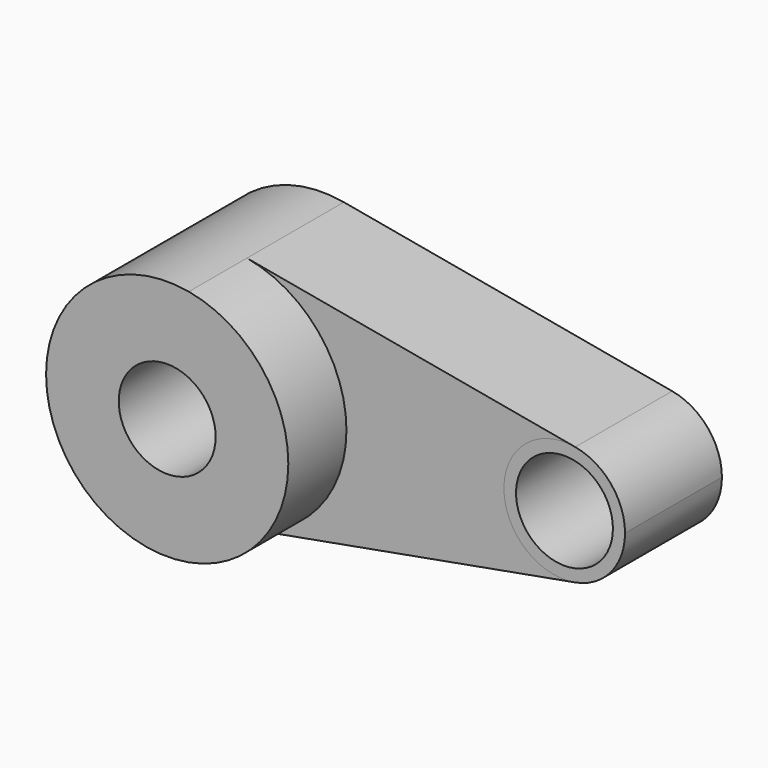
from build123d import *

# Parameters (mm, degrees)
F0_R     = 10
F2_DEPTH = 25
F3_DEPTH = 40


with BuildPart() as f2:
    # F0 (on Front) → F2 (new body)
    with BuildSketch(Plane.XZ):
        with BuildLine():
            ThreePointArc((82.5, 0), (79.5956184197, 8.0108743058), (72.2321428571, 12.2990868875))
            ThreePointArc((72.2321428571, 12.2990868875), (57.5, 0), (72.2321428571, -12.2990868875))
            ThreePointArc((72.2321428571, -12.2990868875), (79.5956184197, -8.0108743058), (82.5, 0))
        make_face()
        with Locations((70, 0)):
            Circle(F0_R, mode=Mode.SUBTRACT)
    extrude(amount=F2_DEPTH)


with BuildPart() as f2b:
    # F1 (on face) → F2, piece 2 (new body)
    with BuildSketch(Plane.XZ):
        with BuildLine():
            Line((72.2321428571, 12.2990868875), (4.4642857143, 24.5981737749))
            ThreePointArc((4.4642857143, 24.5981737749), (19.1912368395, 16.0217486115), (25, 0))
            ThreePointArc((25, 0), (19.1912368395, -16.0217486115), (4.4642857143, -24.5981737749))
            Line((4.4642857143, -24.5981737749), (72.2321428571, -12.2990868875))
            ThreePointArc((72.2321428571, -12.2990868875), (57.5, 0), (72.2321428571, 12.2990868875))
        make_face()
    extrude(amount=F2_DEPTH)

    # F0 (on Front) → F3 (join)
    with BuildSketch(Plane.XZ):
        with BuildLine():
            ThreePointArc((4.4642857143, -24.5981737749), (19.1912368395, -16.0217486115), (25, 0))
            ThreePointArc((25, 0), (19.1912368395, 16.0217486115), (4.4642857143, 24.5981737749))
            ThreePointArc((4.4642857143, 24.5981737749), (-25, 0), (4.4642857143, -24.5981737749))
        make_face()
        Circle(F0_R, mode=Mode.SUBTRACT)
    extrude(amount=F3_DEPTH)


solid = Compound([f2.part, f2b.part])
